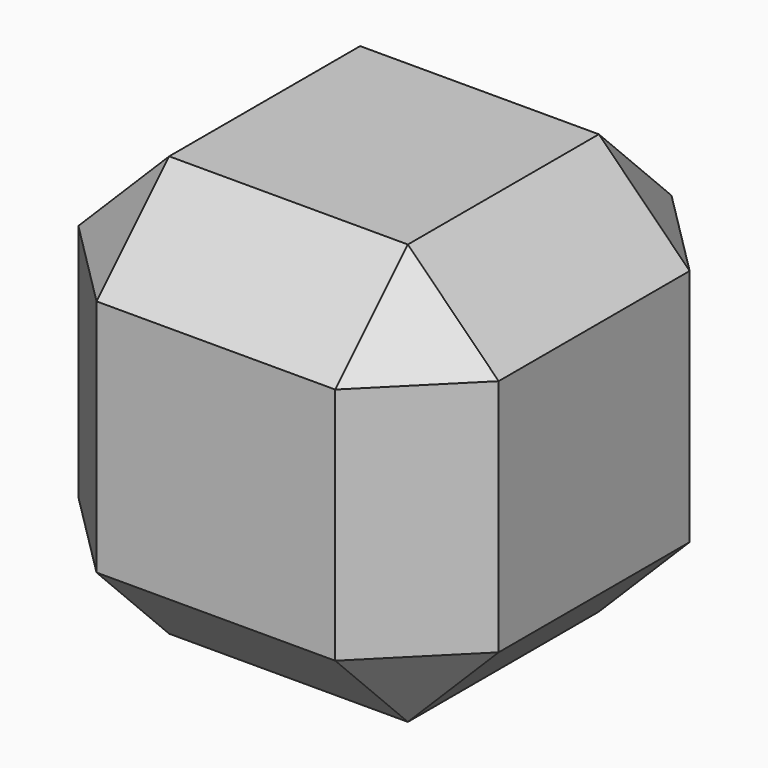
from build123d import *

# Parameters (mm, degrees)
F0_W     = 58.7931647897
F0_H     = 58.7931647897
F1_DEPTH = 12.7
F2_W     = 58.7931647897
F2_H     = 16.6965823948
F2_H_2   = 25.4
F3_DEPTH = 58.7931647897
F4_SIZE  = 12.7


with BuildPart() as f1:
    # F0 (on Top) → F1 (new body, symmetric)
    with BuildSketch(Plane.XY):
        Rectangle(F0_W, F0_H)
    extrude(amount=F1_DEPTH, both=True)

    # F2 (on face) → F3 (join, through all)
    with BuildSketch(Plane.XZ.offset(29.3965823948)):
        with Locations((0, 21.0482911974)):
            Rectangle(F2_W, F2_H)
        with Locations((0, -21.0482911974)):
            Rectangle(F2_W, F2_H)
        Rectangle(F2_W, F2_H_2)
    extrude(amount=-F3_DEPTH)

    # F4
    f4_edges = [f1.edges().sort_by_distance(p)[0] for p in [
        (0, 29.396582, 29.396582),
        (-29.396582, 0, 29.396582),
        (-29.396582, 29.396582, 0),
        (29.396582, 0, 29.396582),
        (0, -29.396582, 29.396582),
        (0, 29.396582, -29.396582),
        (29.396582, 29.396582, 0),
        (-29.396582, -29.396582, 0),
        (-29.396582, 0, -29.396582),
        (0, -29.396582, -29.396582),
        (29.396582, -29.396582, 0),
        (29.396582, 0, -29.396582),
    ]]
    chamfer(f4_edges, length=F4_SIZE)


solid = f1.part
